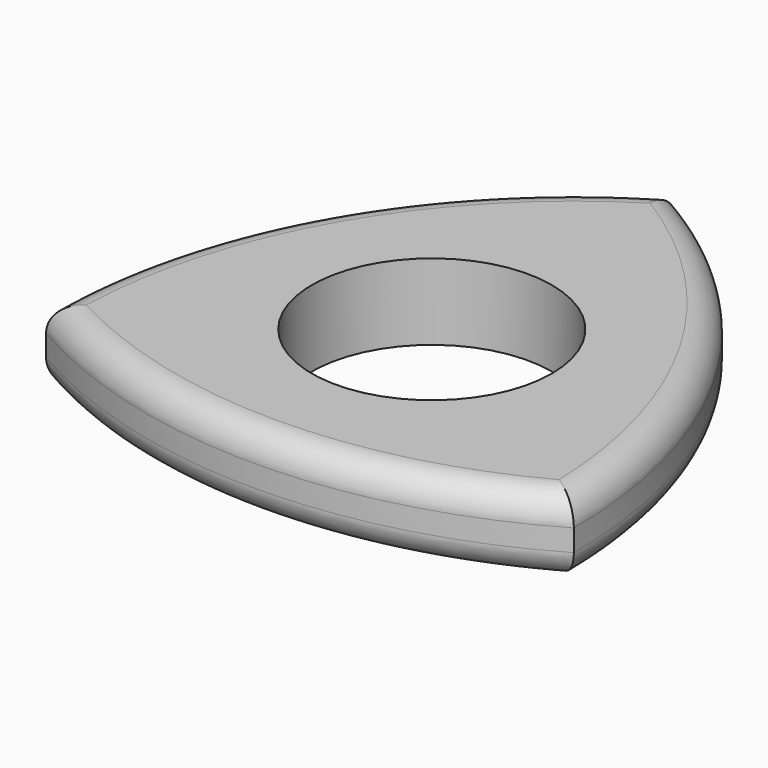
from build123d import *

# Parameters (mm, degrees)
F0_R     = 11.025
F1_DEPTH = 7
F2_R     = 2.5


with BuildPart() as f1:
    # F0 (on Top) → F1 (new body)
    with BuildSketch(Plane.XY):
        with BuildLine():
            ThreePointArc((0, 28), (-17.751289, 10.248711), (-24.248711, -14))
            Line((-24.248711, -14), (0, 28))
        make_face()
        Polygon((-24.248711, -14), (24.248711, -14), (0, 28), align=None)
        Circle(F0_R, mode=Mode.SUBTRACT)
        with BuildLine():
            Line((0, 28), (24.248711, -14))
            ThreePointArc((24.248711, -14), (17.751289, 10.248711), (0, 28))
        make_face()
        with BuildLine():
            ThreePointArc((-24.248711, -14), (0, -20.497423), (24.248711, -14))
            Line((24.248711, -14), (-24.248711, -14))
        make_face()
    extrude(amount=F1_DEPTH)

    # F2
    f2_edges = [f1.edges().sort_by_distance(p)[0] for p in [
        (0, -20.497423, 7),
        (17.751289, 10.248711, 7),
        (-17.751289, 10.248711, 7),
        (0, -20.497423, 0),
        (17.751289, 10.248711, 0),
        (-17.751289, 10.248711, 0),
    ]]
    fillet(f2_edges, radius=F2_R)


solid = f1.part
